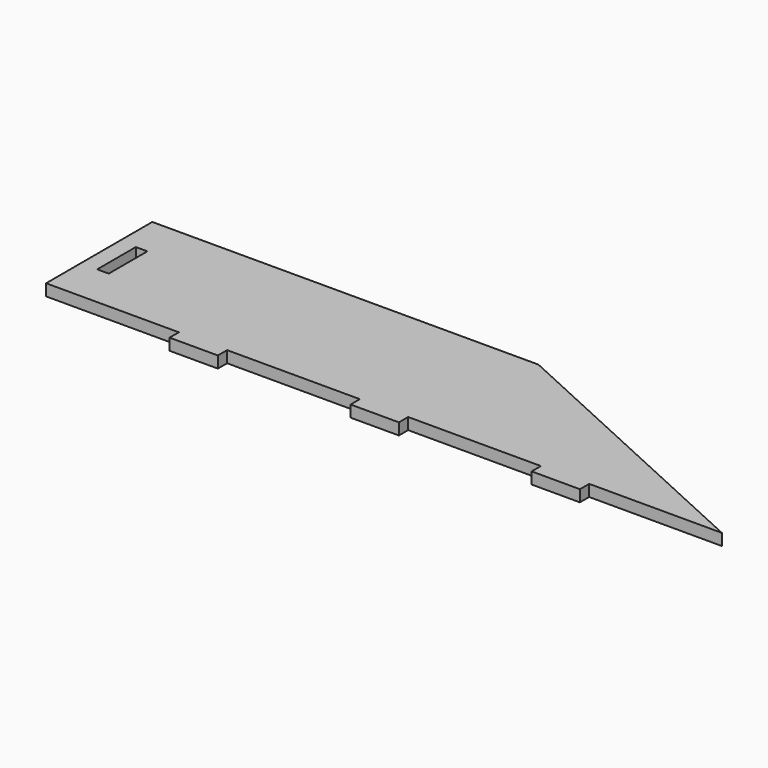
from build123d import *

# Parameters (mm, degrees)
F1_DEPTH = 18.288
F2_W     = 18.288
F2_H     = 76.2
F3_DEPTH = 25.4


with BuildPart() as f1:
    # F0 (on Top) → F1 (new body)
    with BuildSketch(Plane.XY):
        Polygon((-1067.61384, 176.902703), (-1067.61384, -32.647297), (-858.06384, -32.647297), (-858.06384, -50.935297), (-781.86384, -50.935297), (-781.86384, -32.647297), (-572.31384, -32.647297), (-572.31384, -50.935297), (-496.11384, -50.935297), (-496.11384, -32.647297), (-286.56384, -32.647297), (-286.56384, -50.935297), (-210.36384, -50.935297), (-210.36384, -32.647297), (-0.81384, -32.647297), (-458.01384, 176.902703), align=None)
    extrude(amount=F1_DEPTH)

    # F2 (on Top) → F3 (cut)
    with BuildSketch(Plane.XY):
        with Locations((-1032.45726, 73.806196)):
            Rectangle(F2_W, F2_H)
    extrude(amount=F3_DEPTH, mode=Mode.SUBTRACT)


solid = f1.part
